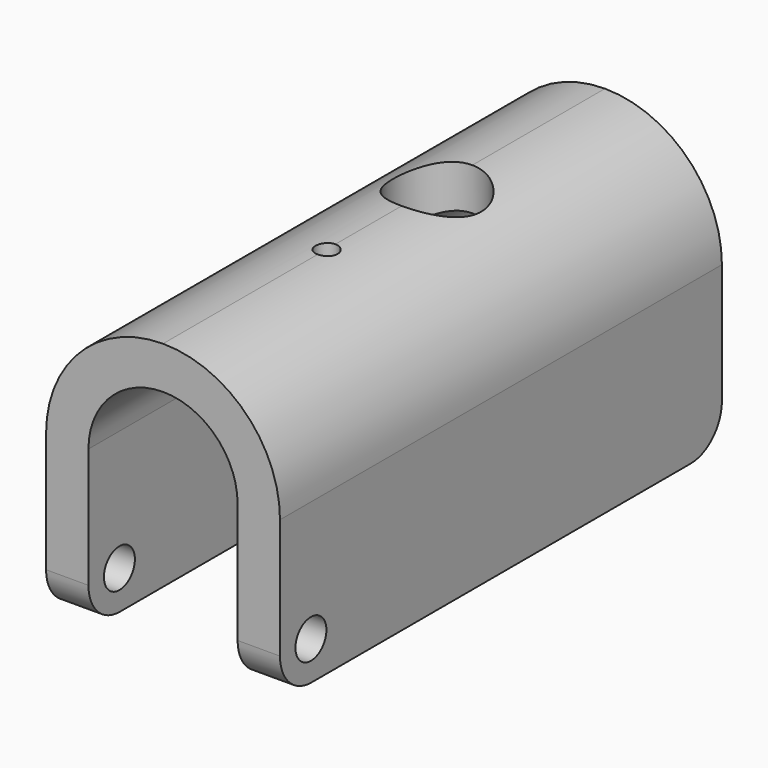
from build123d import *

# Parameters (mm, degrees)
F1_DEPTH = 50
F2_R     = 7.1
F3_R     = 3.5
F4_DEPTH = 25
F5_R     = 2
F5_R_2   = 8
F6_DEPTH = 25


with BuildPart() as f1:
    # F0 (on Front) → F1 (new body, symmetric)
    with BuildSketch(Plane.XZ):
        with BuildLine():
            ThreePointArc((-13.5, 0), (-9.545942, 9.545942), (0, 13.5))
            Line((0, 13.5), (0, 21.172315))
            ThreePointArc((0, 21.172315), (-14.971087, 14.971087), (-21.172315, 0))
            Line((-21.172315, 0), (-21.172315, -28.827685))
            Line((-21.172315, -28.827685), (-13.5, -28.827685))
            Line((-13.5, -28.827685), (-13.5, 0))
        make_face()
        with BuildLine():
            ThreePointArc((0, 13.5), (9.545942, 9.545942), (13.5, 0))
            Line((13.5, 0), (13.5, -28.827685))
            Line((13.5, -28.827685), (21.172315, -28.827685))
            Line((21.172315, -28.827685), (21.172315, 0))
            ThreePointArc((21.172315, 0), (14.971087, 14.971087), (0, 21.172315))
            Line((0, 21.172315), (0, 13.5))
        make_face()
    extrude(amount=F1_DEPTH, both=True)

    # F2
    f2_edges = [f1.edges().sort_by_distance(p)[0] for p in [
        (17.336157, 50, -28.827685),
        (-17.336157, 50, -28.827685),
        (-17.336157, -50, -28.827685),
        (17.336157, -50, -28.827685),
    ]]
    fillet(f2_edges, radius=F2_R)

    # F3 (on Right) → F4 (cut, symmetric)
    with BuildSketch(Plane.YZ):
        with Locations((-43.000714, -21.827685)):
            Circle(F3_R)
    extrude(amount=F4_DEPTH, both=True, mode=Mode.SUBTRACT)

    # F5 (on Top) → F6 (cut)
    with BuildSketch(Plane.XY):
        with Locations((0, -13)):
            Circle(F5_R)
        with Locations((0, 12)):
            Circle(F5_R_2)
    extrude(amount=F6_DEPTH, mode=Mode.SUBTRACT)


solid = f1.part
